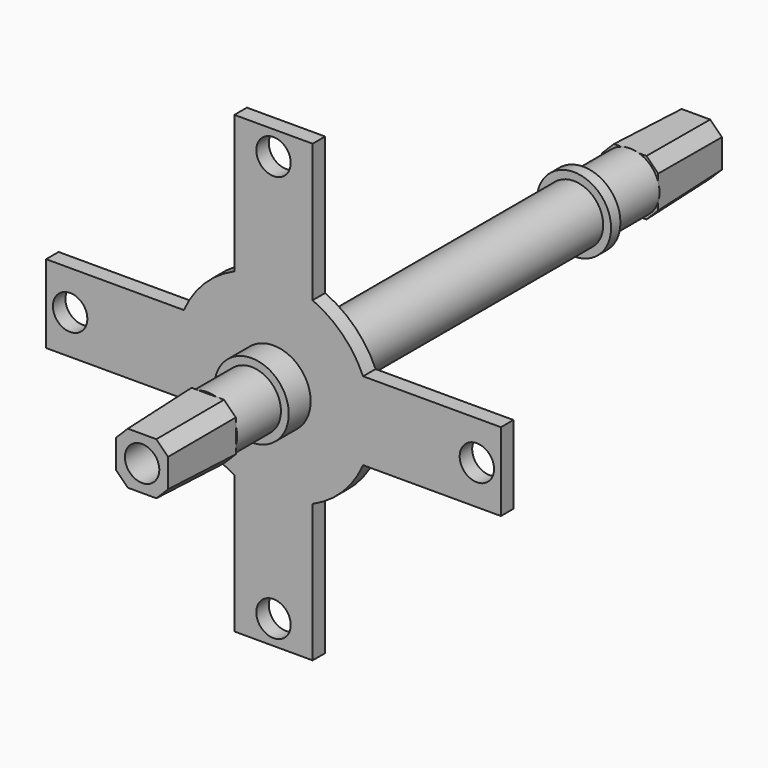
from build123d import *

# Parameters (mm, degrees)
F3_W      = 14.3
F3_H      = 14.3
F4_W      = 13.3
F4_H      = 13.3
F8_SIZE   = 3
F9_R      = 7.5
F10_DEPTH = 135
F11_START = -14
F9_R_2    = 9.5
F11_DEPTH = 11
F12_START = -117
F12_DEPTH = 3
F13_R     = 9.5
F14_DEPTH = 4
F15_D     = 8.8
F16_D     = 8.8


with BuildPart() as f7:
    # F3 (on Front) → F7 section 0
    with BuildSketch(Plane.XZ):
        with Locations((-109.1235904219, 0)):
            Rectangle(F3_W, F3_H)
    # F4 (on offset) → F7 section 1
    with BuildSketch(Plane.XZ.offset(21)):
        with Locations((-109.1235904219, 0)):
            Rectangle(F4_W, F4_H)
    loft()

    # F8
    f8_edges = [f7.edges().sort_by_distance(p)[0] for p in [
        (-116.02359, -10.5, 6.9),
        (-116.02359, -10.5, -6.9),
        (-102.22359, -10.5, 6.9),
        (-102.22359, -10.5, -6.9),
    ]]
    chamfer(f8_edges, length=F8_SIZE)

    # F16 (through all)
    with Locations(Plane.XZ.offset(21)):
        with Locations((-109.1235904219, 0)):
            Hole(F16_D / 2)



with BuildPart() as f10:
    # F9 (on Front) → F10 (new body, through all)
    with BuildSketch(Plane.XZ):
        with Locations((-109.1235904219, 0)):
            Circle(F9_R)
    extrude(amount=-F10_DEPTH)

    # F9 (on Front) → F11 (join)
    with BuildSketch(Plane.XZ.offset(F11_START)):
        with Locations((-109.1235904219, 0)):
            Circle(F9_R_2)
        with Locations((-109.1235904219, 0)):
            Circle(F9_R, mode=Mode.SUBTRACT)
    extrude(amount=-F11_DEPTH)

    # F9 (on Front) → F12 (join)
    with BuildSketch(Plane.XZ.offset(F12_START)):
        with Locations((-109.1235904219, 0)):
            Circle(F9_R_2)
        with Locations((-109.1235904219, 0)):
            Circle(F9_R, mode=Mode.SUBTRACT)
    extrude(amount=-F12_DEPTH)

    # F13 (on face) → F14 (join)
    with BuildSketch(Plane(origin=(0, 25, 0), x_dir=(-1, 0, 0), z_dir=(0, 1, 0))):
        with BuildLine():
            Line((119.1235904219, 22.9128784748), (119.1235904219, 58.1463670404))
            Line((119.1235904219, 58.1463670404), (99.1235904219, 58.1463670404))
            Line((99.1235904219, 58.1463670404), (99.1235904219, 22.9128784748))
            ThreePointArc((99.1235904219, 22.9128784748), (109.1235904219, 25), (119.1235904219, 22.9128784748))
        make_face()
        with BuildLine():
            Line((99.1235904219, -58.1463670404), (119.1235904219, -58.1463670404))
            Line((119.1235904219, -58.1463670404), (119.1235904219, -22.9128784748))
            ThreePointArc((119.1235904219, -22.9128784748), (109.1235904219, -25), (99.1235904219, -22.9128784748))
            Line((99.1235904219, -22.9128784748), (99.1235904219, -58.1463670404))
        make_face()
        with BuildLine():
            Line((167.2699574623, -10), (167.2699574623, 10))
            Line((167.2699574623, 10), (132.0364688967, 10))
            ThreePointArc((132.0364688967, 10), (133.5962482452, 5.1077410922), (134.1235904219, 0))
            ThreePointArc((134.1235904219, 0), (133.5962482452, -5.1077410922), (132.0364688967, -10))
            Line((132.0364688967, -10), (167.2699574623, -10))
        make_face()
        with BuildLine():
            ThreePointArc((134.1235904219, 0), (133.5962482452, 5.1077410922), (132.0364688967, 10))
            ThreePointArc((132.0364688967, 10), (126.8012599516, 17.6776695297), (119.1235904219, 22.9128784748))
            Line((119.1235904219, 22.9128784748), (99.1235904219, 22.9128784748))
            ThreePointArc((99.1235904219, 22.9128784748), (91.4459208923, 17.6776695297), (86.2107119471, 10))
            ThreePointArc((86.2107119471, 10), (84.1235904219, 0), (86.2107119471, -10))
            ThreePointArc((86.2107119471, -10), (91.4459208923, -17.6776695297), (99.1235904219, -22.9128784748))
            ThreePointArc((99.1235904219, -22.9128784748), (109.1235904219, -25), (119.1235904219, -22.9128784748))
            ThreePointArc((119.1235904219, -22.9128784748), (126.8012599516, -17.6776695297), (132.0364688967, -10))
            ThreePointArc((132.0364688967, -10), (133.5962482452, -5.1077410922), (134.1235904219, 0))
        make_face()
        with Locations((109.1235904219, 0)):
            Circle(F13_R, mode=Mode.SUBTRACT)
        with BuildLine():
            Line((86.2107119471, 10), (50.9772233815, 10))
            Line((50.9772233815, 10), (50.9772233815, -10))
            Line((50.9772233815, -10), (86.2107119471, -10))
            ThreePointArc((86.2107119471, -10), (84.1235904219, 0), (86.2107119471, 10))
        make_face()
        with BuildLine():
            Line((99.1235904219, 22.9128784748), (119.1235904219, 22.9128784748))
            ThreePointArc((119.1235904219, 22.9128784748), (109.1235904219, 25), (99.1235904219, 22.9128784748))
        make_face()
    extrude(amount=-F14_DEPTH)

    # F15 (through all)
    with Locations(Plane(origin=(0, 25, 0), x_dir=(-1, 0, 0), z_dir=(0, 1, 0))):
        with Locations((109.1235904219, 52), (57.1235904219, 0), (161.1235904219, 0), (109.1235904219, -52)):
            Hole(F15_D / 2)


with BuildPart() as f7_1:
    add(f7.part)

    add(f10.part)  # F17 merges F10
    # F17: F7 across plane
    add(f7.part.mirror(Plane.XZ.offset(-67.5)))


solid = f7_1.part
